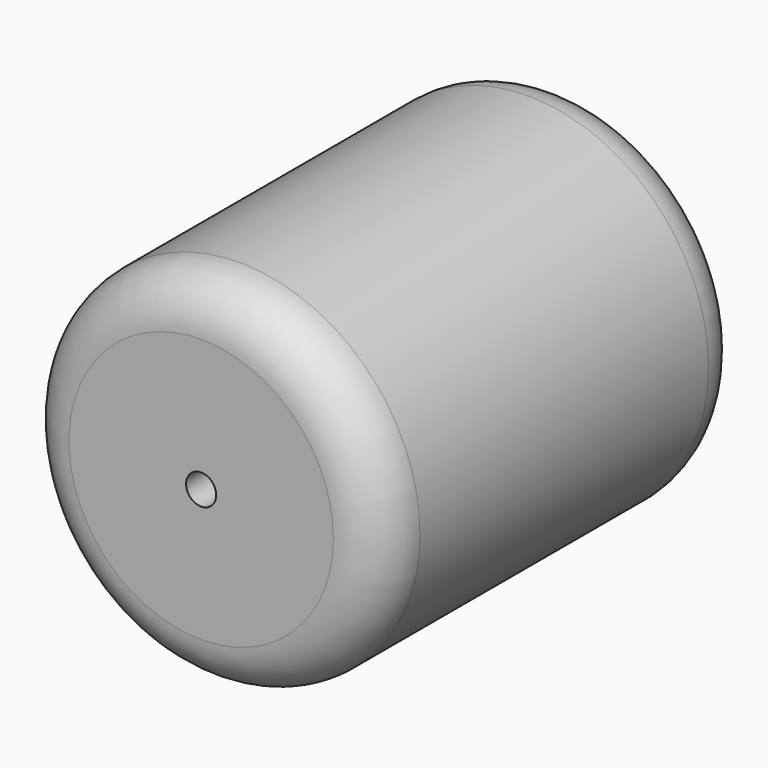
from build123d import *

# Parameters (mm, degrees)
F0_R     = 4.7625
F1_DEPTH = 12.065
F2_R     = 1.27
F4_D     = 0.79502


with BuildPart() as f1:
    # F0 (on Front) → F1 (new body)
    with BuildSketch(Plane.XZ):
        Circle(F0_R)
    extrude(amount=F1_DEPTH)

    # F2
    f2_edges = [f1.edges().sort_by_distance(p)[0] for p in [
        (-4.7625, -12.065, 0),
        (-4.7625, 0, 0),
    ]]
    fillet(f2_edges, radius=F2_R)

    # F4 (through all)
    with Locations(Plane(origin=(0, 0, 0), x_dir=(-1, 0, 0), z_dir=(0, 1, 0))):
        with Locations((0, 0)):
            Hole(F4_D / 2)


solid = f1.part
